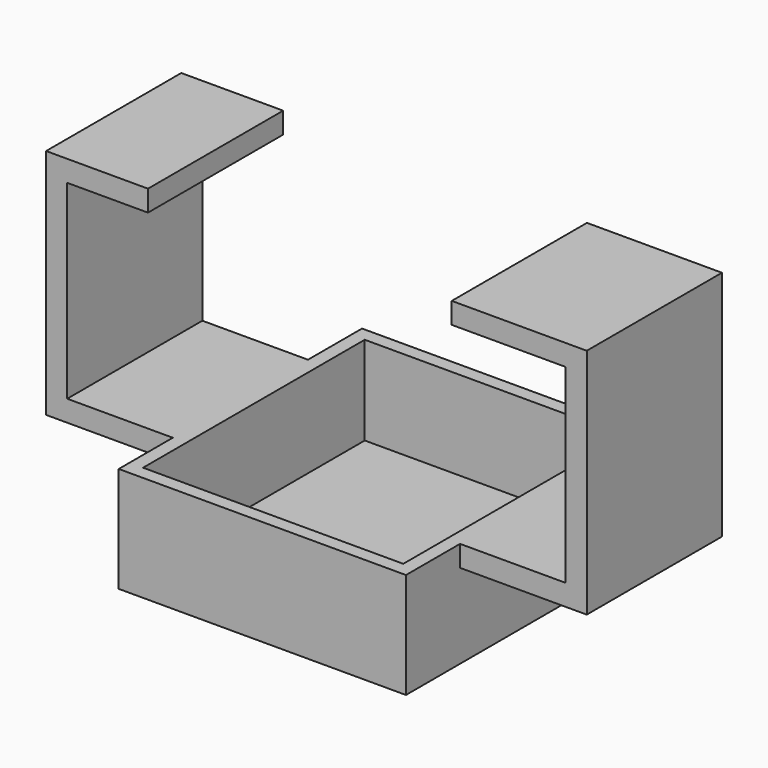
from build123d import *

# Parameters (mm, degrees)
F1_DEPTH  = 25.4
F2_W      = 43.18
F2_H      = 45.72
F2_W_2    = 39.116
F2_H_2    = 41.656
F3_DEPTH  = 10.16
F4_W      = 43.18
F4_H      = 45.72
F5_DEPTH  = 2.54
F6_W      = 39.116
F6_H      = 3.175
F7_DEPTH  = 25.4
F9_DEPTH  = 3.175
F11_DEPTH = 3.175


with BuildPart() as f1:
    # F0 (on Front) → F1 (new body)
    with BuildSketch(Plane.XZ):
        Polygon((0, 34.925), (0, 0), (81.28, 0), (81.28, 34.925), (60.98439, 34.925), (60.98439, 31.75), (78.105, 31.75), (78.105, 3.175), (3.175, 3.175), (3.175, 31.75), (15.319279, 31.75), (15.319279, 34.925), align=None)
    extrude(amount=F1_DEPTH)

    # F2 (on face) → F3 (join)
    with BuildSketch(Plane(origin=(0, 0, 0), x_dir=(1, 0, 0), z_dir=(0, 0, -1))):
        with Locations((40.64, 12.7)):
            Rectangle(F2_W, F2_H)
        with Locations((40.64, 12.7)):
            Rectangle(F2_W_2, F2_H_2, mode=Mode.SUBTRACT)
    extrude(amount=F3_DEPTH)

    # F4 (on face) → F5 (join)
    with BuildSketch(Plane(origin=(0, 0, -10.16), x_dir=(1, 0, 0), z_dir=(0, 0, -1))):
        with Locations((40.64, 12.7)):
            Rectangle(F4_W, F4_H)
    extrude(amount=F5_DEPTH)

    # F6 (on face) → F7 (cut)
    with BuildSketch(Plane(origin=(0, 0, 0), x_dir=(-1, 0, 0), z_dir=(0, 1, 0))):
        with Locations((-40.64, 1.5875)):
            Rectangle(F6_W, F6_H)
    extrude(amount=-F7_DEPTH, mode=Mode.SUBTRACT)

    # F8 (on face) → F9 (join)
    with BuildSketch(Plane.XY):
        Polygon((19.05, 10.16), (19.05, 0), (21.082, 0), (21.082, 8.128), (60.198, 8.128), (60.198, 0), (62.23, 0), (62.23, 10.16), align=None)
    extrude(amount=F9_DEPTH)

    # F10 (on face) → F11 (join)
    with BuildSketch(Plane.XY):
        Polygon((21.082, -25.4), (19.05, -25.4), (19.05, -35.56), (62.23, -35.56), (62.23, -25.4), (60.198, -25.4), (60.198, -33.528), (21.082, -33.528), align=None)
    extrude(amount=F11_DEPTH)


solid = f1.part
